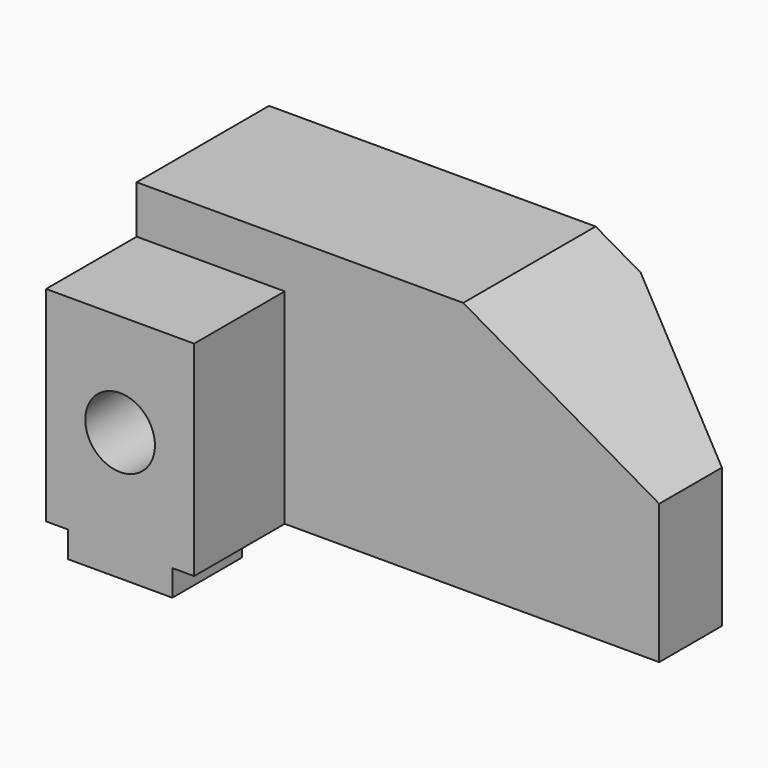
from build123d import *

# Parameters (mm, degrees)
F0_W     = 34
F0_H     = 16
F1_DEPTH = 58
F3_DEPTH = 38.001
F4_W     = 34
F4_H     = 11
F5_DEPTH = 16
F7_DEPTH = 10
F8_R     = 8
F9_DEPTH = 22


with BuildPart() as f1:
    # F0 (on Top) → F1 (new body)
    with BuildSketch(Plane.XY):
        Polygon((0, 38), (0, 0), (34, 0), (75, 0), (75, 38), align=None)
        with Locations((17, -8)):
            Rectangle(F0_W, F0_H)
        Polygon((85.358984, 38), (75, 38), (75, 0), (120, 0), (120, 18), align=None)
    extrude(amount=F1_DEPTH)

    # F2 (on face) → F3 (cut, through all)
    with BuildSketch(Plane.XZ):
        Polygon((75, 58), (120, 32.019238), (120, 58), align=None)
    extrude(amount=-F3_DEPTH, mode=Mode.SUBTRACT)

    # F4 (on face) → F5 (cut, symmetric)
    with BuildSketch(Plane.XZ.offset(16)):
        with Locations((17, 52.5)):
            Rectangle(F4_W, F4_H)
    extrude(amount=F5_DEPTH, both=True, mode=Mode.SUBTRACT)

    # F6 (on face) → F7 (join, symmetric)
    with BuildSketch(Plane.XZ.offset(16)):
        Polygon((34, 47), (0, 47), (0, 0), (5, 0), (5, -6), (29, -6), (29, 0), (34, 0), align=None)
    extrude(amount=F7_DEPTH, both=True)

    # F8 (on face) → F9 (cut)
    with BuildSketch(Plane.XZ.offset(26)):
        with Locations((17, 23.5)):
            Circle(F8_R)
    extrude(amount=-F9_DEPTH, mode=Mode.SUBTRACT)


solid = f1.part
